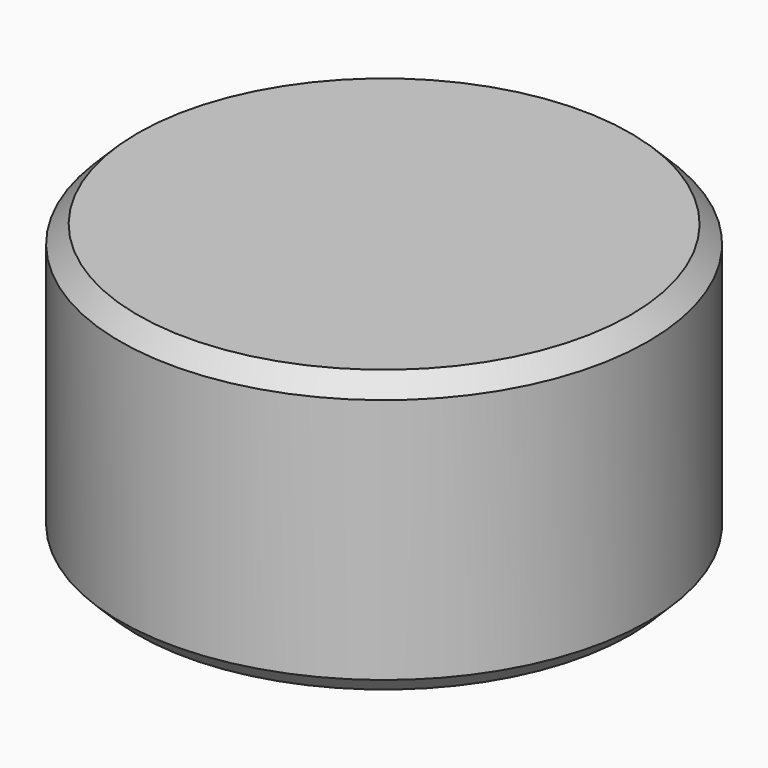
from build123d import *

# Parameters (mm, degrees)
CYLINDER047_R     = 30
CYLINDER047_DEPTH = 32
CHAMFER015_SIZE   = 2
CHAMFER014_SIZE   = 2


with BuildPart() as part:
    # Cylinder047 → Cylinder047 (join)
    with BuildSketch(Plane.XY.offset(-16)):
        Circle(CYLINDER047_R)
    extrude(amount=CYLINDER047_DEPTH)

    # Chamfer015
    chamfer015_edges = [part.edges().sort_by_distance(p)[0] for p in [
        (-30, 0, 16),
    ]]
    chamfer(chamfer015_edges, length=CHAMFER015_SIZE)

    # Chamfer014
    chamfer014_edges = [part.edges().sort_by_distance(p)[0] for p in [
        (-30, 0, -16),
    ]]
    chamfer(chamfer014_edges, length=CHAMFER014_SIZE)


solid = part.part
